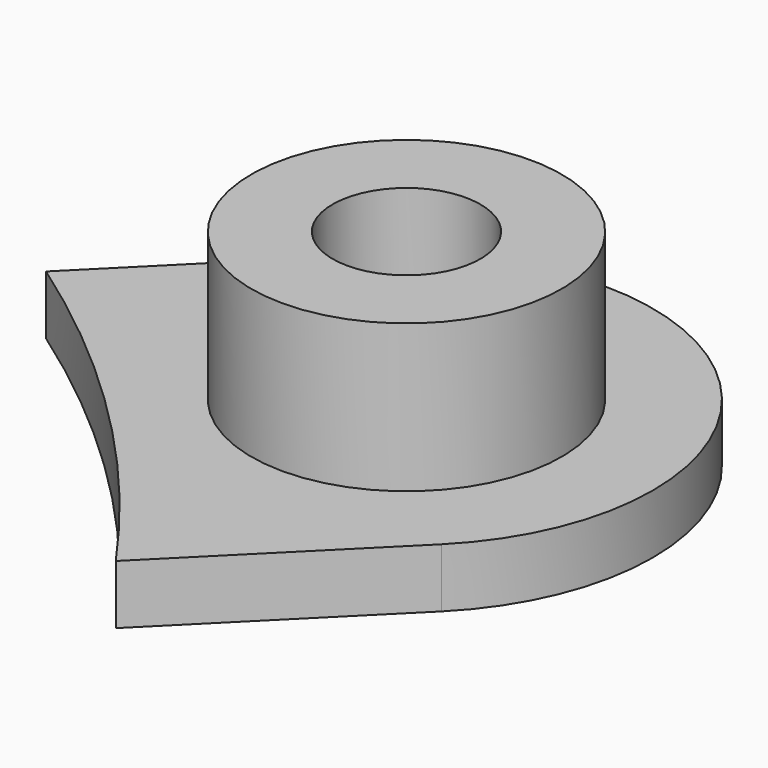
from build123d import *

# Parameters (mm, degrees)
PAD_DEPTH                = 1.2
SKETCH001_R              = 3.15
PAD001_DEPTH             = 3
SKETCH002_R              = 0.8
POCKET_DEPTH             = 4.201
SKETCH003_R              = 1.5
POCKET001_DEPTH          = 5
CLONE002_PLACEMENT_ANGLE = -90


with BuildPart() as part:
    # Sketch → Pad (new body)
    with BuildSketch(Plane.XY):
        with BuildLine():
            ThreePointArc((-19.975767, 27.046834), (-27.046834, 27.046834), (-27.046834, 19.975767))
            Line((-23.375519, 16.304451), (-27.046834, 19.975767))
            ThreePointArc((-16.304451, 23.375519), (-20.152543, 20.152543), (-23.375519, 16.304451))
            Line((-19.975767, 27.046834), (-16.304451, 23.375519))
        make_face()
    extrude(amount=PAD_DEPTH)

    # Sketch001 → Pad001 (new body)
    with BuildSketch(Plane.XY.offset(1.2)):
        with Locations((-23.5113, 23.5113)):
            Circle(SKETCH001_R)
    extrude(amount=PAD001_DEPTH)

    # Sketch002 → Pocket (cut, through all)
    with BuildSketch(Plane.XY.offset(4.2)):
        with Locations((-23.5113, 23.5113)):
            Circle(SKETCH002_R)
    extrude(amount=-POCKET_DEPTH, mode=Mode.SUBTRACT)

    # Sketch003 → Pocket001 (cut)
    with BuildSketch(Plane.XY.offset(4.2)):
        with Locations((-23.5113, 23.5113)):
            Circle(SKETCH003_R)
    extrude(amount=-POCKET001_DEPTH, mode=Mode.SUBTRACT)


with BuildPart() as part_1:
    # Clone002 placement: moved
    add(part.part.rotate(Axis((0, 0, 0), (0, 0, 1)), CLONE002_PLACEMENT_ANGLE))


solid = part_1.part
